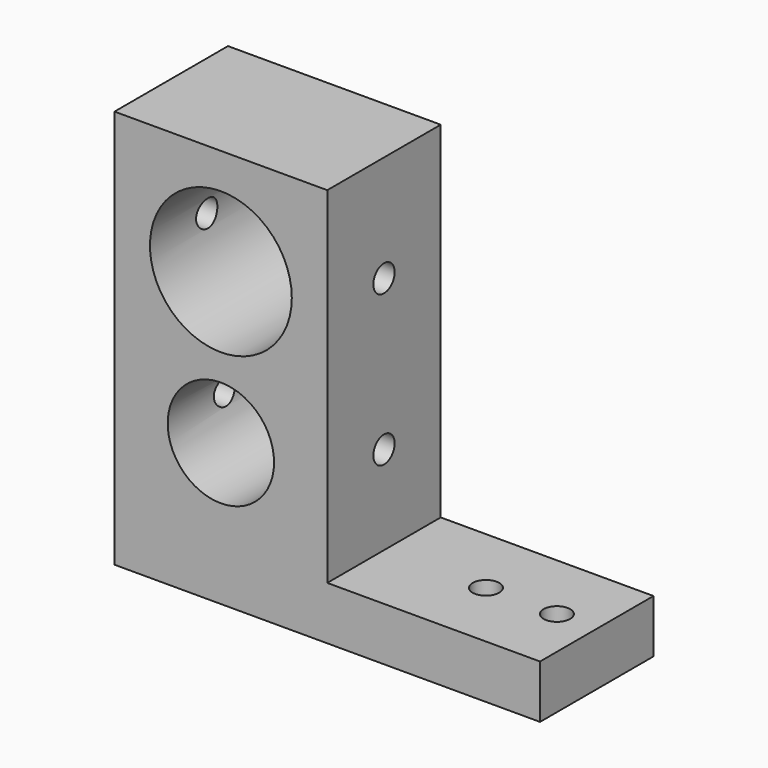
from build123d import *

# Parameters (mm, degrees)
F0_R     = 9.525
F0_R_2   = 12.7
F1_DEPTH = 25.4
F2_R     = 2.38125
F3_DEPTH = 9.526
F4_R     = 2.38125
F5_DEPTH = 38.101


with BuildPart() as f1:
    # F0 (on Front) → F1 (new body)
    with BuildSketch(Plane.XZ):
        Polygon((-76.2, 0), (0, 0), (0, 9.525), (-38.1, 9.525), (-38.1, 71.4375), (-76.2, 71.4375), align=None)
        with Locations((-57.15, 25.4)):
            Circle(F0_R, mode=Mode.SUBTRACT)
        with Locations((-57.15, 52.3875)):
            Circle(F0_R_2, mode=Mode.SUBTRACT)
    extrude(amount=F1_DEPTH)

    # F2 (on face) → F3 (cut, through all)
    with BuildSketch(Plane.XY.offset(9.525)):
        with Locations((-7.14375, -12.7)):
            Circle(F2_R)
        with Locations((-19.84375, -12.7)):
            Circle(F2_R)
    extrude(amount=-F3_DEPTH, mode=Mode.SUBTRACT)

    # F4 (on face) → F5 (cut, through all)
    with BuildSketch(Plane.YZ.offset(-38.1)):
        with Locations((-12.7, 25.4)):
            Circle(F4_R)
        with Locations((-12.7, 52.3875)):
            Circle(F4_R)
    extrude(amount=-F5_DEPTH, mode=Mode.SUBTRACT)


solid = f1.part
